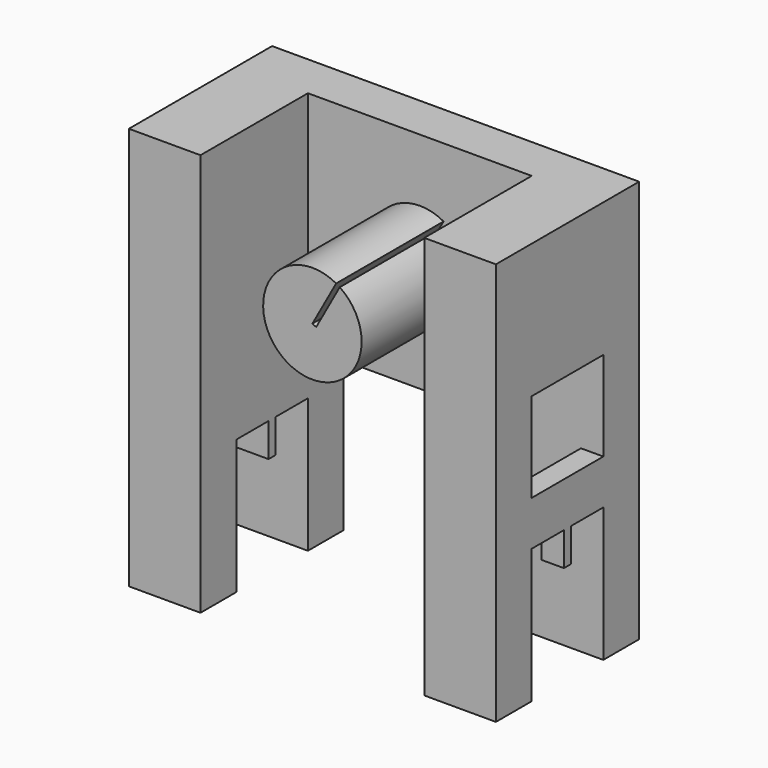
from build123d import *

# Parameters (mm, degrees)
F0_W      = 31.75
F0_H      = 31.75
F1_DEPTH  = 6.35
F2_W      = 6.35
F2_H      = 31.75
F3_DEPTH  = 10.16
F4_W      = 6.35
F4_H      = 31.75
F5_DEPTH  = 10.16
F6_W      = 12.7
F6_H      = 38.1
F7_DEPTH  = 12.7
F8_W      = 3.175
F8_H      = 6.35
F9_DEPTH  = 12.7
F10_W     = 12.7
F10_H     = 19.05
F11_DEPTH = 12.7
F13_W     = 10.16
F13_H     = 1.27
F14_DEPTH = 4.7625
F16_DEPTH = 19.05
F17_W     = 3.175
F17_H     = 1.27
F18_DEPTH = 4.7498


with BuildPart() as f1:
    # F0 (on Front) → F1 (new body)
    with BuildSketch(Plane.XZ):
        with Locations((15.875, 15.875)):
            Rectangle(F0_W, F0_H)
    extrude(amount=F1_DEPTH)

    # F2 (on face) → F3 (join)
    with BuildSketch(Plane(origin=(0, 0, 0), x_dir=(0, -1, 0), z_dir=(-1, 0, 0))):
        Polygon((0, 0), (0, -25.4), (25.4, -25.4), (25.4, 31.75), (6.35, 31.75), (6.35, 0), align=None)
        with Locations((3.175, 15.875)):
            Rectangle(F2_W, F2_H)
    extrude(amount=F3_DEPTH)

    # F4 (on face) → F5 (join)
    with BuildSketch(Plane.YZ.offset(31.75)):
        with Locations((-3.175, 15.875)):
            Rectangle(F4_W, F4_H)
        Polygon((-6.35, 0), (-6.35, 31.75), (-25.4, 31.75), (-25.4, -25.4), (0, -25.4), (0, 0), align=None)
    extrude(amount=F5_DEPTH)

    # F6 (on face) → F7 (cut)
    with BuildSketch(Plane.YZ.offset(41.91)):
        with Locations((-12.7, -6.35)):
            Rectangle(F6_W, F6_H)
    extrude(amount=-F7_DEPTH, mode=Mode.SUBTRACT)

    # F8 (on face) → F9 (join, through all)
    with BuildSketch(Plane.XZ.offset(6.35)):
        with Locations((40.3225, -3.175)):
            Rectangle(F8_W, F8_H)
    extrude(amount=F9_DEPTH)

    # F10 (on face) → F11 (cut)
    with BuildSketch(Plane(origin=(-10.16, 0, 0), x_dir=(0, -1, 0), z_dir=(-1, 0, 0))):
        with Locations((12.7, -15.875)):
            Rectangle(F10_W, F10_H)
    extrude(amount=-F11_DEPTH, mode=Mode.SUBTRACT)

    # F13 (on face) → F14 (join)
    with BuildSketch(Plane(origin=(0, 0, -6.35), x_dir=(1, 0, 0), z_dir=(0, 0, -1))):
        with Locations((-5.08, 12.7)):
            Rectangle(F13_W, F13_H)
    extrude(amount=F14_DEPTH)

    # F15 (on face) → F16 (join)
    with BuildSketch(Plane.XZ.offset(6.35)):
        with BuildLine():
            Line((16.4158089086, 15.6251635376), (15.875, 15.875))
            Line((15.875, 15.875), (19.2451557873, 21.9931921324))
            ThreePointArc((19.2451557873, 21.9931921324), (12.2474155401, 9.9058412664), (19.7534345525, 21.6843003384))
            Line((19.7534345525, 21.6843003384), (16.4158089086, 15.6251635376))
        make_face()
    extrude(amount=F16_DEPTH)

    # F17 (on face) → F18 (join)
    with BuildSketch(Plane(origin=(0, 0, -6.35), x_dir=(1, 0, 0), z_dir=(0, 0, -1))):
        with Locations((40.3225, 12.7)):
            Rectangle(F17_W, F17_H)
    extrude(amount=F18_DEPTH)


solid = f1.part
